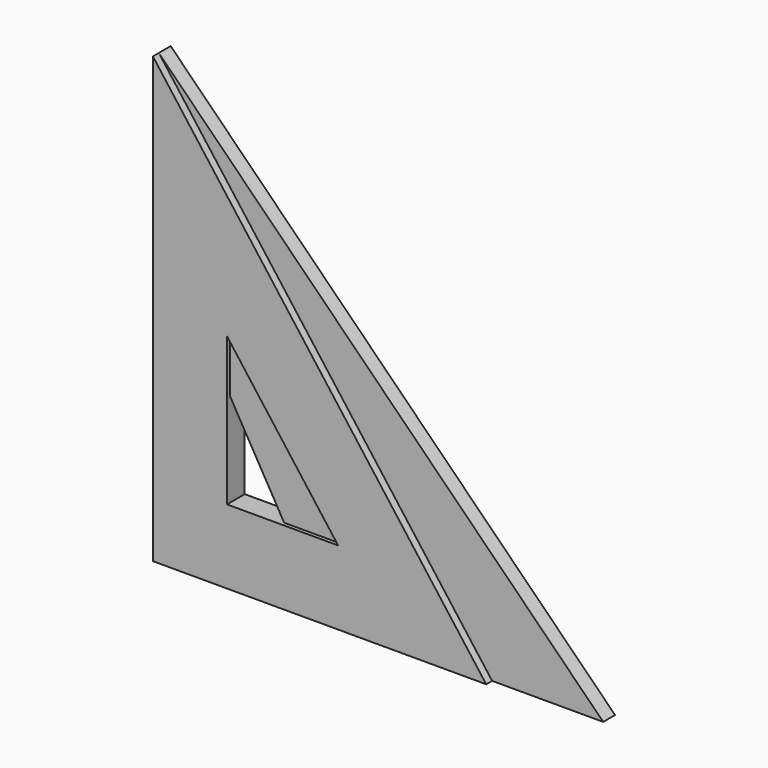
from build123d import *

# Parameters (mm, degrees)
F1_DEPTH = 5.08
F3_DEPTH = 6.35
F5_DEPTH = 7.62


with BuildPart() as f1:
    # F0 (on Front) → F1 (new body)
    with BuildSketch(Plane.XZ):
        Polygon((0, 152.4), (0, 0), (152.4, 0), align=None)
        Polygon((91.078976, 25.4), (25.4, 25.4), (25.4, 91.078976), align=None, mode=Mode.SUBTRACT)
    extrude(amount=F1_DEPTH)


with BuildPart() as f3:
    # F2 (on Front) → F3 (new body)
    with BuildSketch(Plane.XZ):
        Polygon((0, 152.4), (0, 0), (87.988181, 0), align=None)
        Polygon((43.994091, 25.4), (25.4, 25.4), (25.4, 57.605909), align=None, mode=Mode.SUBTRACT)
    extrude(amount=F3_DEPTH)


with BuildPart() as f5:
    # F4 (on Front) → F5 (new body)
    with BuildSketch(Plane.XZ):
        Polygon((0, 152.4), (0, 0), (114.3, 0), align=None)
        Polygon((63.5, 25.4), (25.4, 25.4), (25.4, 76.2), align=None, mode=Mode.SUBTRACT)
    extrude(amount=F5_DEPTH)


solid = Compound([f1.part, f3.part, f5.part])
